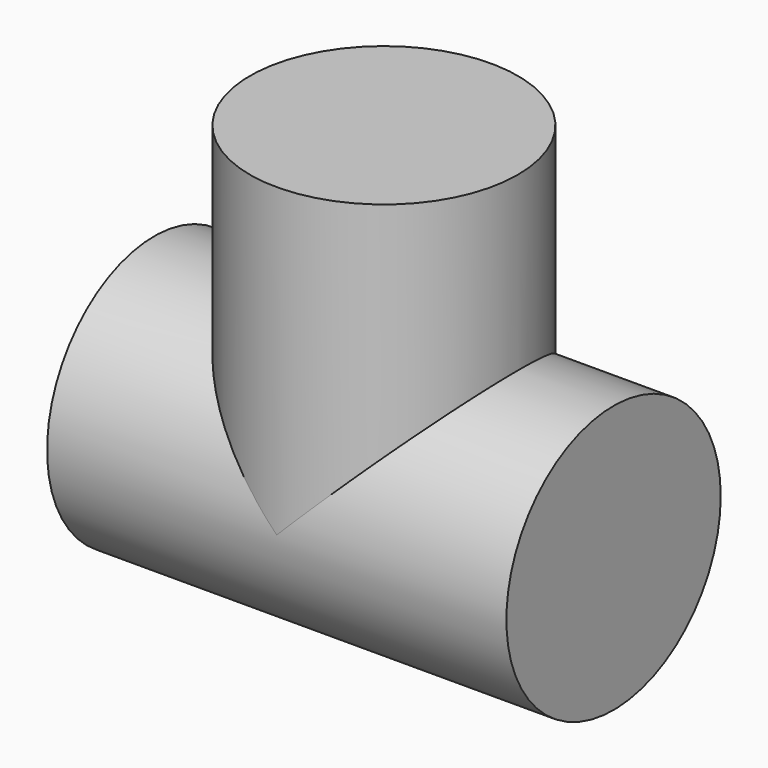
from build123d import *

# Parameters (mm, degrees)
F1_R     = 22.225
F2_DEPTH = 38.1
F0_R     = 22.225
F3_DEPTH = 50.8


with BuildPart() as f2:
    # F1 (on Right) → F2 (new body, symmetric)
    with BuildSketch(Plane.YZ):
        Circle(F1_R)
    extrude(amount=F2_DEPTH, both=True)

    # F0 (on Top) → F3 (join)
    with BuildSketch(Plane.XY):
        Circle(F0_R)
    extrude(amount=F3_DEPTH)


solid = f2.part
